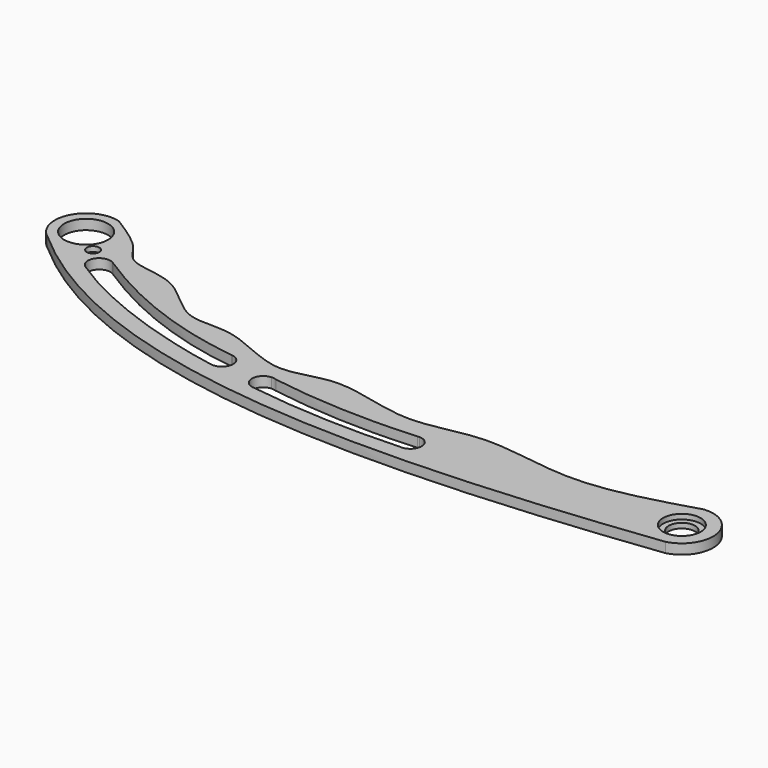
from build123d import *

# Parameters (mm, degrees)
F0_R     = 2.667
F0_R_2   = 4.445
F1_DEPTH = 2.032
F2_R     = 3.81
F2_R_2   = 2.667
F3_DEPTH = 1.016
F4_R     = 0.8255
F5_DEPTH = 25.4
F6_R     = 1.27
F6_R_2   = 0.8255
F7_DEPTH = 1.016


with BuildPart() as f1:
    # F0 (on Top) → F1 (new body)
    with BuildSketch(Plane.XY):
        with BuildLine():
            add(Edge.make_bspline(
                [(-161.8766367465, -26.7160857284), (-130.4493884094, -54.4638294888), (-80.5808308072, -54.6738259655), (-20.0722847609, -47.2300497458)],
                knots=[0, 0, 0, 0, 143.280483534, 143.280483534, 143.280483534, 143.280483534], degree=3))
            ThreePointArc((-20.0722847609, -47.2300497458), (-15.390001915, -39.9851293612), (-22.2514018559, -34.7569523483))
            add(Edge.make_bspline(
                [(-156.4800007469, -15.3977959233), (-153.6670469943, -17.1765727386), (-148.7731033235, -20.2587965776), (-146.6099811998, -25.8330587175), (-136.0128934045, -25.1342998567), (-128.3796792681, -35.5257497726), (-118.2156379975, -32.7590187221), (-105.6351490845, -41.2223918449), (-94.8487286588, -35.010807072), (-78.6016535491, -41.7378023992), (-64.4508698612, -35.8858094626), (-44.8537704329, -41.5304431339), (-30.0356448791, -37.0910134537), (-22.2514018559, -34.7569523483)],
                knots=[0, 0, 0, 0, 0.0778729538, 0.1353570321, 0.2133944217, 0.300436546, 0.3792539685, 0.4740248133, 0.5597806174, 0.6631841528, 0.7615873053, 0.8747557561, 1, 1, 1, 1], degree=3))
            ThreePointArc((-156.4800007469, -15.3977959233), (-164.000427073, -18.7577274432), (-161.8766367465, -26.7160857284))
        make_face()
        with BuildLine():
            ThreePointArc((-148.393819837, -27.0904692349), (-148.310357627, -27.1426555234), (-148.2292193976, -27.1983864569))
            add(Edge.make_bspline(
                [(-148.2292193976, -27.1983864569), (-137.6321480969, -34.1306532721), (-126.3183058185, -38.5379448266), (-113.7849666433, -40.1356662582)],
                knots=[0.1905782604, 0.1905782604, 0.1905782604, 0.1905782604, 36.9863141476, 36.9863141476, 36.9863141476, 36.9863141476], degree=3))
            ThreePointArc((-113.7849666433, -40.1356662582), (-113.6751067023, -40.14683148), (-113.5659141167, -40.1632889417))
            ThreePointArc((-113.5659141167, -40.1632889417), (-111.7187992975, -42.8596706899), (-114.4552984959, -44.646813612))
            add(Edge.make_bspline(
                [(-150.611741506, -31.0860356173), (-140.2867734432, -37.9869937897), (-126.2515187263, -42.5168909132), (-114.4552984959, -44.646813612)],
                knots=[0, 0, 0, 0, 38.6158396383, 38.6158396383, 38.6158396383, 38.6158396383], degree=3))
            ThreePointArc((-150.611741506, -31.0860356173), (-151.5624731778, -27.9449259977), (-148.393819837, -27.0904692349))
        make_face(mode=Mode.SUBTRACT)
        with BuildLine():
            ThreePointArc((-104.0907971602, -42.1303299726), (-103.5959305004, -42.1579114528), (-103.1186399475, -42.2915059031))
            add(Edge.make_bspline(
                [(-103.1186399475, -42.2915059031), (-93.7665900622, -43.8001112121), (-83.5344509582, -44.2502244434), (-73.3660695221, -43.5309403586)],
                knots=[1.0336368061, 1.0336368061, 1.0336368061, 1.0336368061, 30.7652598931, 30.7652598931, 30.7652598931, 30.7652598931], degree=3))
            ThreePointArc((-73.3660695221, -43.5309403586), (-73.161688582, -43.5068783258), (-72.9559718672, -43.5012941239))
            ThreePointArc((-72.9559718672, -43.5012941239), (-70.7192546717, -45.9826317274), (-73.3464785843, -48.0460353787))
            add(Edge.make_bspline(
                [(-104.0962413714, -46.6956290273), (-93.8536599278, -48.1598563492), (-83.6125984788, -48.5345311463), (-73.3464785843, -48.0460353787)],
                knots=[0, 0, 0, 0, 30.7794007215, 30.7794007215, 30.7794007215, 30.7794007215], degree=3))
            ThreePointArc((-104.0962413714, -46.6956290273), (-106.2558256689, -44.4104009059), (-104.0907971602, -42.1303299726))
        make_face(mode=Mode.SUBTRACT)
        with Locations((-21.6452580647, -41.0779562009)):
            Circle(F0_R, mode=Mode.SUBTRACT)
        with Locations((-158.2686344631, -21.490684354)):
            Circle(F0_R_2, mode=Mode.SUBTRACT)
    extrude(amount=F1_DEPTH)

    # F2 (on face) → F3 (cut)
    with BuildSketch(Plane.XY.offset(2.032)):
        with Locations((-21.6452580647, -41.0779562009)):
            Circle(F2_R)
        with Locations((-21.6452580647, -41.0779562009)):
            Circle(F2_R_2, mode=Mode.SUBTRACT)
    extrude(amount=-F3_DEPTH, mode=Mode.SUBTRACT)

    # F4 (on face) → F5 (cut)
    with BuildSketch(Plane.XY.offset(2.032)):
        with Locations((-153.5314321518, -25.6521515548)):
            Circle(F4_R)
    extrude(amount=-F5_DEPTH, mode=Mode.SUBTRACT)

    # F6 (on face) → F7 (cut)
    with BuildSketch(Plane.XY.offset(2.032)):
        with Locations((-153.5314321518, -25.6521515548)):
            Circle(F6_R)
        with Locations((-153.5314321518, -25.6521515548)):
            Circle(F6_R_2, mode=Mode.SUBTRACT)
    extrude(amount=-F7_DEPTH, mode=Mode.SUBTRACT)


solid = f1.part
